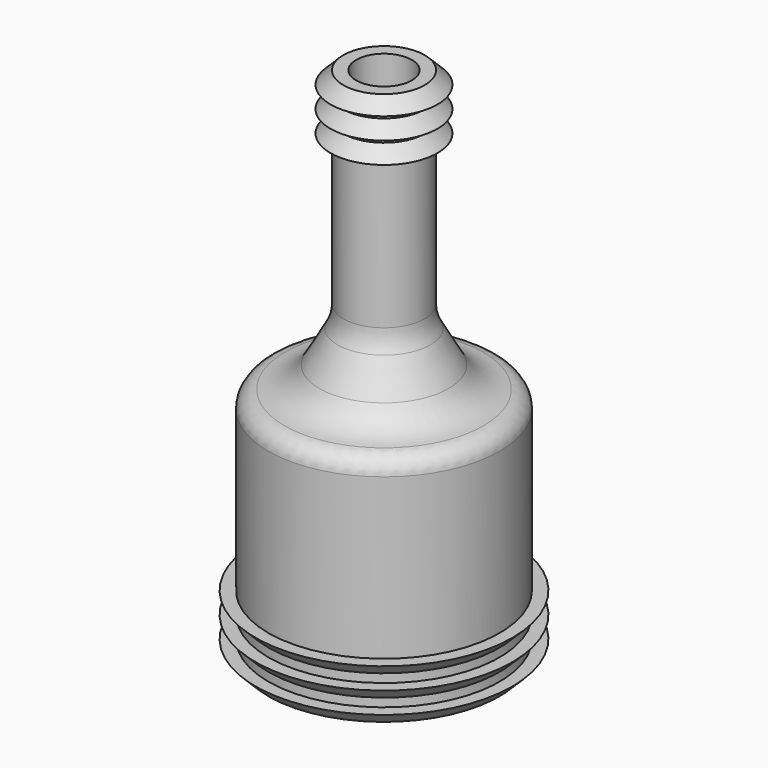
from build123d import *

# Parameters (mm, degrees)
F2_R = 2


with BuildPart() as f1:
    # F0 (on Front) → F1 (revolve)
    with BuildSketch(Plane.XZ):
        with BuildLine():
            Line((-13.5, 2.5), (-13.5, 1.5))
            Line((-13.5, 1.5), (-15, 1.5))
            Line((-15, 1.5), (-13.5, 0))
            Line((-13.5, 0), (-12, 0))
            Line((-12, 0), (-12, 25.688218))
            Line((-12, 25.688218), (-11.260779, 25.688218))
            ThreePointArc((-11.260779, 25.688218), (-8.748901, 26.36497), (-6.91699, 28.21203))
            Line((-6.91699, 28.21203), (-3.906212, 33.493611))
            ThreePointArc((-3.906212, 33.493611), (-3.416836, 34.688967), (-3.25, 35.969799))
            Line((-3.25, 35.969799), (-3.25, 60))
            Line((-3.25, 60), (-4.75, 60))
            Line((-4.75, 60), (-6.25, 58.5))
            Line((-6.25, 58.5), (-4.75, 58.5))
            Line((-4.75, 58.5), (-4.75, 57.5))
            Line((-4.75, 57.5), (-6.25, 56))
            Line((-6.25, 56), (-4.75, 56))
            Line((-4.75, 56), (-4.75, 55))
            Line((-4.75, 55), (-6.25, 53.5))
            Line((-6.25, 53.5), (-4.75, 53.5))
            Line((-4.75, 53.5), (-4.75, 35.969799))
            ThreePointArc((-4.75, 35.969799), (-4.916836, 34.688967), (-5.406212, 33.493611))
            Line((-5.406212, 33.493611), (-7.561912, 29.71203))
            ThreePointArc((-7.561912, 29.71203), (-9.393822, 27.86497), (-11.9057, 27.188218))
            Line((-11.9057, 27.188218), (-13.5, 27.188218))
            Line((-13.5, 27.188218), (-13.5, 6.5))
            Line((-13.5, 6.5), (-15, 6.5))
            Line((-15, 6.5), (-13.5, 5))
            Line((-13.5, 5), (-13.5, 4))
            Line((-13.5, 4), (-15, 4))
            Line((-15, 4), (-13.5, 2.5))
        make_face()
    revolve(axis=Axis((0, 0, 43.055264), (0, 0, 1)))

    # F2
    f2_edges = [f1.edges().sort_by_distance(p)[0] for p in [
        (13.5, 0, 27.188218),
    ]]
    fillet(f2_edges, radius=F2_R)


solid = f1.part
